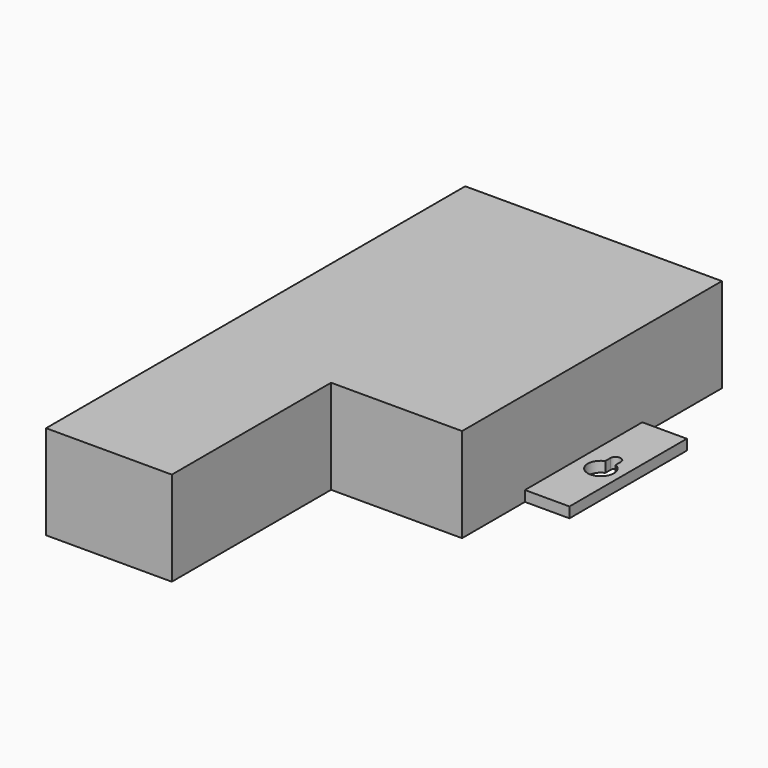
from build123d import *

# Parameters (mm, degrees)
F0_W     = 77.7875
F0_H     = 98.425
F1_DEPTH = 28.575
F2_W     = 104.775
F2_H     = 44.45
F3_DEPTH = 3.175
F4_W     = 38.1
F4_H     = 28.575
F5_DEPTH = 60.325


with BuildPart() as f1:
    # F0 (on Top) → F1 (new body)
    with BuildSketch(Plane.XY):
        Rectangle(F0_W, F0_H)
    extrude(amount=F1_DEPTH)

    # F2 (on face) → F3 (join)
    with BuildSketch(Plane(origin=(0, 0, 0), x_dir=(1, 0, 0), z_dir=(0, 0, -1))):
        with Locations((0, 3.175)):
            Rectangle(F2_W, F2_H)
        with BuildLine():
            ThreePointArc((-47.625, 1.918831), (-48.211274, 8.876744), (-42.06875, 5.55625))
            ThreePointArc((-42.06875, 5.55625), (-42.717006, 3.382476), (-44.45, 1.918831))
            Line((-44.45, 1.918831), (-44.45, 0))
            ThreePointArc((-44.45, 0), (-46.0375, -1.5875), (-47.625, 0))
            Line((-47.625, 0), (-47.625, 1.918831))
        make_face(mode=Mode.SUBTRACT)
        with BuildLine():
            ThreePointArc((44.45, 1.918831), (43.863726, 8.876744), (50.00625, 5.55625))
            ThreePointArc((50.00625, 5.55625), (49.357994, 3.382476), (47.625, 1.918831))
            Line((47.625, 1.918831), (47.625, 0))
            ThreePointArc((47.625, 0), (46.0375, -1.5875), (44.45, 0))
            Line((44.45, 0), (44.45, 1.918831))
        make_face(mode=Mode.SUBTRACT)
    extrude(amount=-F3_DEPTH)

    # F4 (on face) → F5 (join)
    with BuildSketch(Plane.XZ.offset(49.2125)):
        with Locations((-19.84375, 14.2875)):
            Rectangle(F4_W, F4_H)
    extrude(amount=F5_DEPTH)


solid = f1.part
